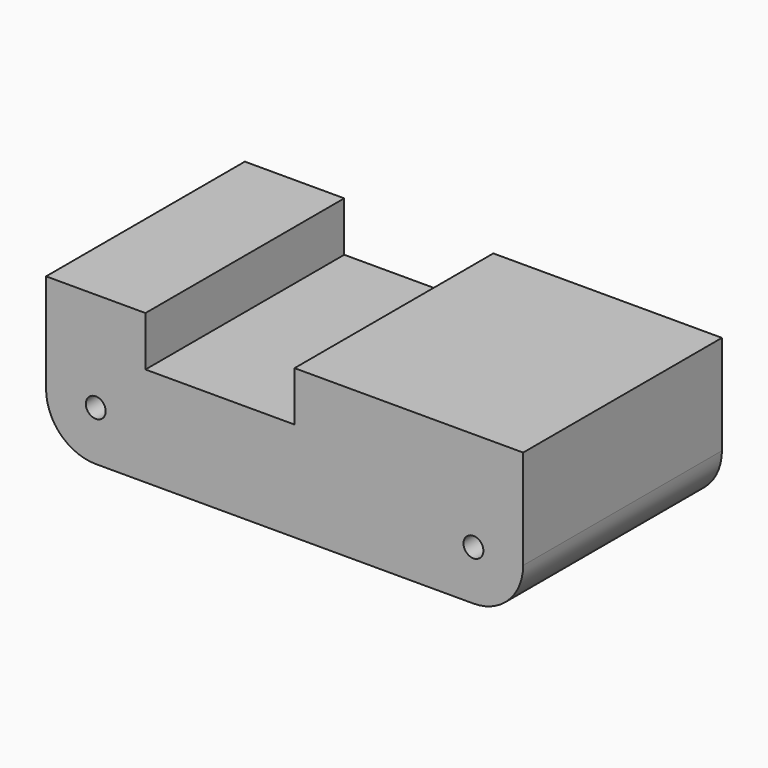
from build123d import *

# Parameters (mm, degrees)
F0_W     = 48
F0_H     = 15
F0_R     = 1
F1_DEPTH = 25
F2_R     = 5
F3_W     = 15
F3_H     = 25
F4_DEPTH = 5


with BuildPart() as f1:
    # F0 (on Front) → F1 (new body)
    with BuildSketch(Plane.XZ):
        with Locations((24, -7.5)):
            Rectangle(F0_W, F0_H)
        with Locations((5, -10)):
            Circle(F0_R, mode=Mode.SUBTRACT)
        with Locations((43, -10)):
            Circle(F0_R, mode=Mode.SUBTRACT)
    extrude(amount=F1_DEPTH)

    # F2
    f2_edges = [f1.edges().sort_by_distance(p)[0] for p in [
        (0, -12.5, -15),
        (48, -12.5, -15),
    ]]
    fillet(f2_edges, radius=F2_R)

    # F3 (on face) → F4 (cut)
    with BuildSketch(Plane.XY):
        with Locations((17.5, -12.5)):
            Rectangle(F3_W, F3_H)
    extrude(amount=-F4_DEPTH, mode=Mode.SUBTRACT)


solid = f1.part
